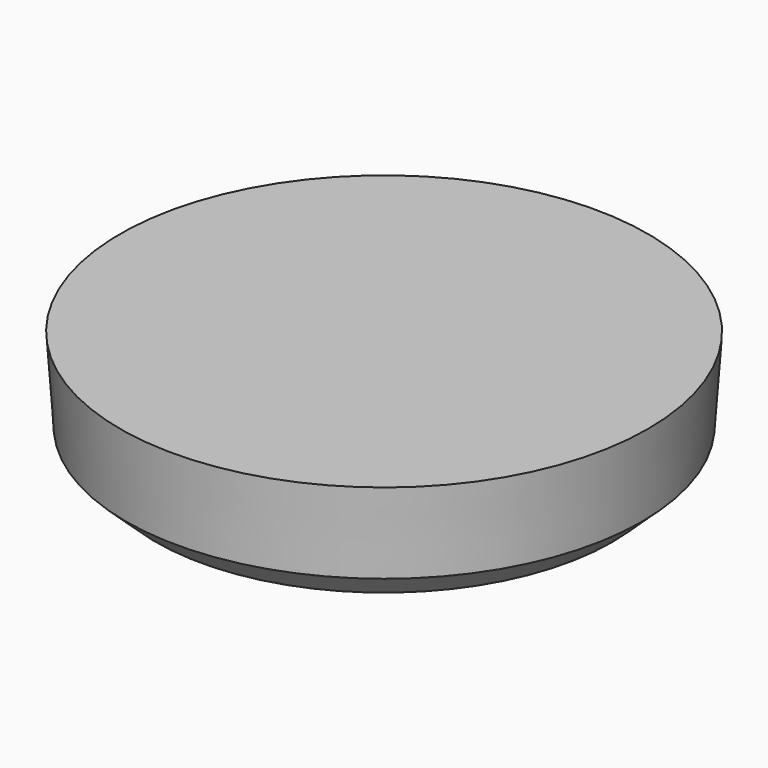
from build123d import *

# Parameters (mm, degrees)
F0_R     = 4.75
F1_DEPTH = 2
F1_TAPER = 4
F2_SIZE  = 0.5


with BuildPart() as f1:
    # F0 (on Top) → F1 (new body)
    with BuildSketch(Plane.XY):
        Circle(F0_R)
    extrude(amount=-F1_DEPTH, taper=F1_TAPER)

    # F2
    f2_edges = [f1.edges().sort_by_distance(p)[0] for p in [
        (-4.610146, 0, -2),
    ]]
    chamfer(f2_edges, length=F2_SIZE)


solid = f1.part
